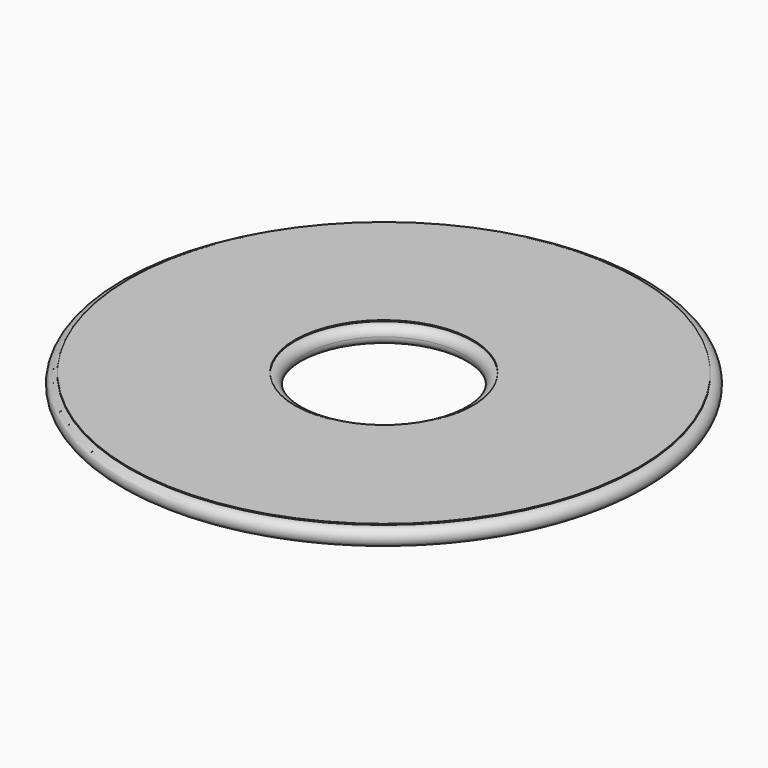
from build123d import *

# Parameters (mm, degrees)
F4_START = 127.7635097504
F3_R     = 10.2272746622
F4_DEPTH = 235.5825603008
F5_COUNT = 8


with BuildPart() as f2:
    # F1 (on Front) → F2 (revolve)
    with BuildSketch(Plane.XZ):
        with BuildLine():
            ThreePointArc((-355.1894130391, 0), (-358.5803020434, 8.4977354615), (-366.889915846, 12.3265674849))
            ThreePointArc((-366.889915846, 12.3265674849), (-376.4851581617, -8.4977354615), (-355.1894130391, 0))
        make_face()
    revolve(axis=Axis((0, 0, -148.9426493645), (0, 0, -1)))


with BuildPart() as f2b:
    # F1 (on Front) → F2, piece 2 (revolve)
    with BuildSketch(Plane.XZ):
        Polygon((-366.889915846, 12.3265674849), (-127.9715821147, 12.842785489), (-127.9748230765, 14.3427819877), (-366.8931568079, 13.8265639836), align=None)
    revolve(axis=Axis((0, 0, -148.9426493645), (0, 0, -1)))


with BuildPart() as f2c:
    # F1 (on Front) → F2, piece 3 (revolve)
    with BuildSketch(Plane.XZ):
        with BuildLine():
            ThreePointArc((-127.9715821147, 12.842785489), (-136.6083371887, -9.2001596287), (-114.7945335205, 0))
            ThreePointArc((-114.7945335205, 0), (-118.6747801056, 9.2001596287), (-127.9715821147, 12.842785489))
        make_face()
    revolve(axis=Axis((0, 0, -148.9426493645), (0, 0, -1)))


with BuildPart() as f4:
    # F3 (on Right) → F4 (new body)
    with BuildSketch(Plane.YZ.offset(F4_START)):
        Circle(F3_R)
    extrude(amount=F4_DEPTH)


with BuildPart() as f5_1:
    # F5: instance of F4
    add(f4.part.rotate(Axis((0, 0, -148.9426493645), (0, 0, -1)), 1 * 360 / F5_COUNT))


with BuildPart() as f5_2:
    # F5: instance of F4
    add(f4.part.rotate(Axis((0, 0, -148.9426493645), (0, 0, -1)), 2 * 360 / F5_COUNT))


with BuildPart() as f5_3:
    # F5: instance of F4
    add(f4.part.rotate(Axis((0, 0, -148.9426493645), (0, 0, -1)), 3 * 360 / F5_COUNT))


with BuildPart() as f5_4:
    # F5: instance of F4
    add(f4.part.rotate(Axis((0, 0, -148.9426493645), (0, 0, -1)), 4 * 360 / F5_COUNT))


with BuildPart() as f5_5:
    # F5: instance of F4
    add(f4.part.rotate(Axis((0, 0, -148.9426493645), (0, 0, -1)), 5 * 360 / F5_COUNT))


with BuildPart() as f5_6:
    # F5: instance of F4
    add(f4.part.rotate(Axis((0, 0, -148.9426493645), (0, 0, -1)), 6 * 360 / F5_COUNT))


with BuildPart() as f5_7:
    # F5: instance of F4
    add(f4.part.rotate(Axis((0, 0, -148.9426493645), (0, 0, -1)), 7 * 360 / F5_COUNT))


solid = Compound([f2.part, f2b.part, f2c.part, f4.part, f5_1.part, f5_2.part, f5_3.part, f5_4.part, f5_5.part, f5_6.part, f5_7.part])
